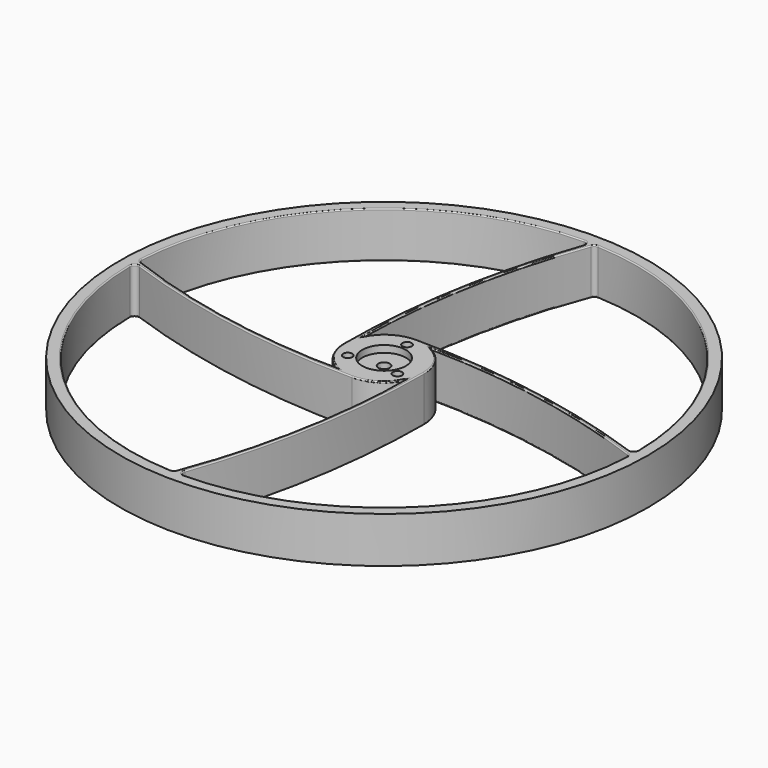
from build123d import *

# Parameters (mm, degrees)
CYLINDER_R     = 9.5
CYLINDER_DEPTH = 3
SKETCH_R       = 115
SKETCH_R_2     = 2
SKETCH_R_3     = 2.5
EXTRUDE_DEPTH  = 20
FILLET_R       = 2
FILLET001_R    = 0.5


with BuildPart() as obj1:
    # Cylinder → Cylinder (new body)
    with BuildSketch(Plane.XY.offset(17)):
        Circle(CYLINDER_R)
    extrude(amount=CYLINDER_DEPTH)


with BuildPart() as cut:
    # Sketch → Extrude (new body)
    with BuildSketch(Plane.XY):
        Circle(SKETCH_R)
        with Locations((0, 12.5)):
            Circle(SKETCH_R_2, mode=Mode.SUBTRACT)
        with Locations((10.825318, -6.25)):
            Circle(SKETCH_R_2, mode=Mode.SUBTRACT)
        with Locations((-10.825318, -6.25)):
            Circle(SKETCH_R_2, mode=Mode.SUBTRACT)
        Circle(SKETCH_R_3, mode=Mode.SUBTRACT)
        with BuildLine():
            ThreePointArc((109.983709, -1.893095), (55.840192, 12.614616), (0, 17.5))
            ThreePointArc((0, 17.5), (-9.057575, 14.973655), (-15.5, 8.124038))
            ThreePointArc((3.892404, 109.931111), (-10.257281, 59.875883), (-15.5, 8.124038))
            ThreePointArc((109.983709, -1.893095), (79.800411, 75.709276), (3.892404, 109.931111))
        make_face(mode=Mode.SUBTRACT)
        with BuildLine():
            ThreePointArc((109.931111, -3.892404), (59.875883, 10.257281), (8.124038, 15.5))
            ThreePointArc((17.5, 0), (14.973655, 9.057575), (8.124038, 15.5))
            ThreePointArc((-1.893095, -109.983709), (12.614616, -55.840192), (17.5, 0))
            ThreePointArc((-1.893095, -109.983709), (75.709276, -79.800411), (109.931111, -3.892404))
        make_face(mode=Mode.SUBTRACT)
        with BuildLine():
            ThreePointArc((-3.892404, -109.931111), (10.257281, -59.875883), (15.5, -8.124038))
            ThreePointArc((0, -17.5), (9.057575, -14.973655), (15.5, -8.124038))
            ThreePointArc((-109.983709, 1.893095), (-55.840192, -12.614616), (0, -17.5))
            ThreePointArc((-109.983709, 1.893095), (-79.800411, -75.709276), (-3.892404, -109.931111))
        make_face(mode=Mode.SUBTRACT)
        with BuildLine():
            ThreePointArc((-109.931111, 3.892404), (-59.875883, -10.257281), (-8.124038, -15.5))
            ThreePointArc((-17.5, 0), (-14.973655, -9.057575), (-8.124038, -15.5))
            ThreePointArc((1.893095, 109.983709), (-12.614616, 55.840192), (-17.5, 0))
            ThreePointArc((1.893095, 109.983709), (-75.709276, 79.800411), (-109.931111, 3.892404))
        make_face(mode=Mode.SUBTRACT)
    extrude(amount=EXTRUDE_DEPTH)

    # Fillet
    fillet_edges = [cut.edges().sort_by_distance(p)[0] for p in [
        (1.893095, 109.983709, 10),
        (-109.931111, 3.892404, 10),
        (-109.983709, 1.893095, 10),
        (-3.892404, -109.931111, 10),
        (-1.893095, -109.983709, 10),
        (109.931111, -3.892404, 10),
        (109.983709, -1.893095, 10),
        (3.892404, 109.931111, 10),
    ]]
    fillet(fillet_edges, radius=FILLET_R)

    # Fillet001
    fillet001_edges = [cut.edges().sort_by_distance(p)[0] for p in [
        (-76.214181, 79.318338, 0),
        (-76.214181, 79.318338, 20),
        (0.682662, 109.157328, 0),
        (-109.542733, 4.154285, 0),
        (-12.856527, 54.45043, 0),
        (-59.162741, -10.392223, 0),
        (-14.973655, -9.057575, 0),
        (-79.318338, -76.214181, 0),
        (-109.157328, 0.682662, 0),
        (-4.154285, -109.542733, 0),
        (-54.45043, -12.856527, 0),
        (10.392223, -59.162741, 0),
        (9.057575, -14.973655, 0),
        (76.214181, -79.318338, 0),
        (-0.682662, -109.157328, 0),
        (109.542733, -4.154285, 0),
        (12.856527, -54.45043, 0),
        (59.162741, 10.392223, 0),
        (14.973655, 9.057575, 0),
        (79.318338, 76.214181, 0),
        (109.157328, -0.682662, 0),
        (4.154285, 109.542733, 0),
        (54.45043, 12.856527, 0),
        (-10.392223, 59.162741, 0),
        (-9.057575, 14.973655, 0),
        (0.682662, 109.157328, 20),
        (-109.542733, 4.154285, 20),
        (-12.856527, 54.45043, 20),
        (-59.162741, -10.392223, 20),
        (-14.973655, -9.057575, 20),
        (-79.318338, -76.214181, 20),
        (-109.157328, 0.682662, 20),
        (-4.154285, -109.542733, 20),
        (-54.45043, -12.856527, 20),
        (10.392223, -59.162741, 20),
        (9.057575, -14.973655, 20),
        (76.214181, -79.318338, 20),
        (-0.682662, -109.157328, 20),
        (109.542733, -4.154285, 20),
        (12.856527, -54.45043, 20),
        (59.162741, 10.392223, 20),
        (14.973655, 9.057575, 20),
        (79.318338, 76.214181, 20),
        (109.157328, -0.682662, 20),
        (4.154285, 109.542733, 20),
        (54.45043, 12.856527, 20),
        (-10.392223, 59.162741, 20),
        (-9.057575, 14.973655, 20),
    ]]
    fillet(fillet001_edges, radius=FILLET001_R)

    # Cut: cut obj1
    add(obj1.part, mode=Mode.SUBTRACT)


solid = cut.part
